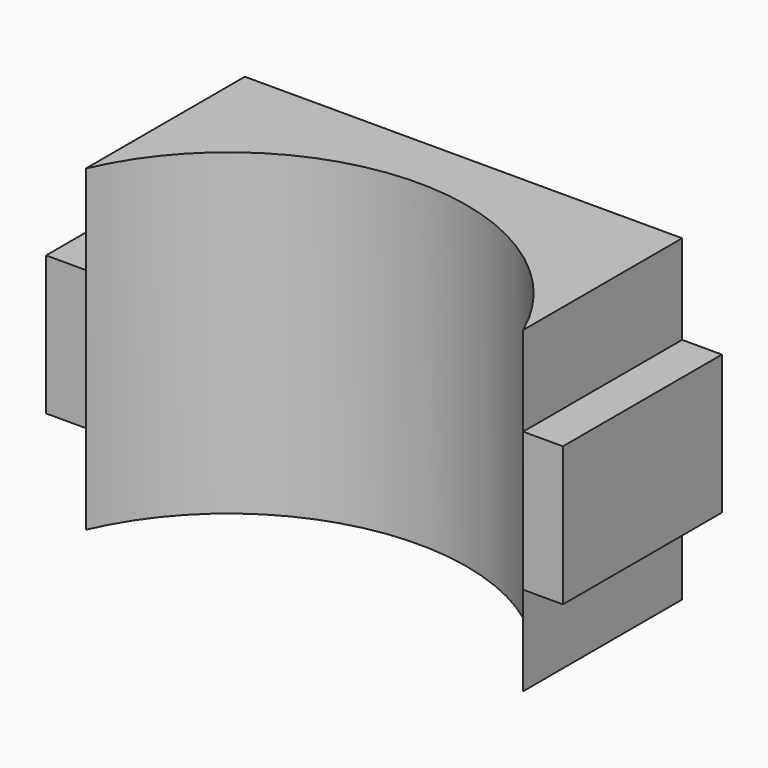
from build123d import *

# Parameters (mm, degrees)
F1_DEPTH = 16
F2_W     = 10
F2_H     = 7
F3_DEPTH = 2
F4_W     = 10
F4_H     = 7
F5_DEPTH = 2


with BuildPart() as f1:
    # F0 (on Top) → F1 (new body)
    with BuildSketch(Plane.XY):
        with BuildLine():
            Line((0, 10), (0, 0))
            ThreePointArc((0, 0), (11, 7.204168), (22, 0))
            Line((22, 0), (22, 10))
            Line((22, 10), (0, 10))
        make_face()
    extrude(amount=F1_DEPTH)

    # F2 (on face) → F3 (join)
    with BuildSketch(Plane.YZ.offset(22)):
        with Locations((5, 8)):
            Rectangle(F2_W, F2_H)
    extrude(amount=F3_DEPTH)

    # F4 (on face) → F5 (join)
    with BuildSketch(Plane(origin=(0, 0, 0), x_dir=(0, -1, 0), z_dir=(-1, 0, 0))):
        with Locations((-5, 8)):
            Rectangle(F4_W, F4_H)
    extrude(amount=F5_DEPTH)


solid = f1.part
